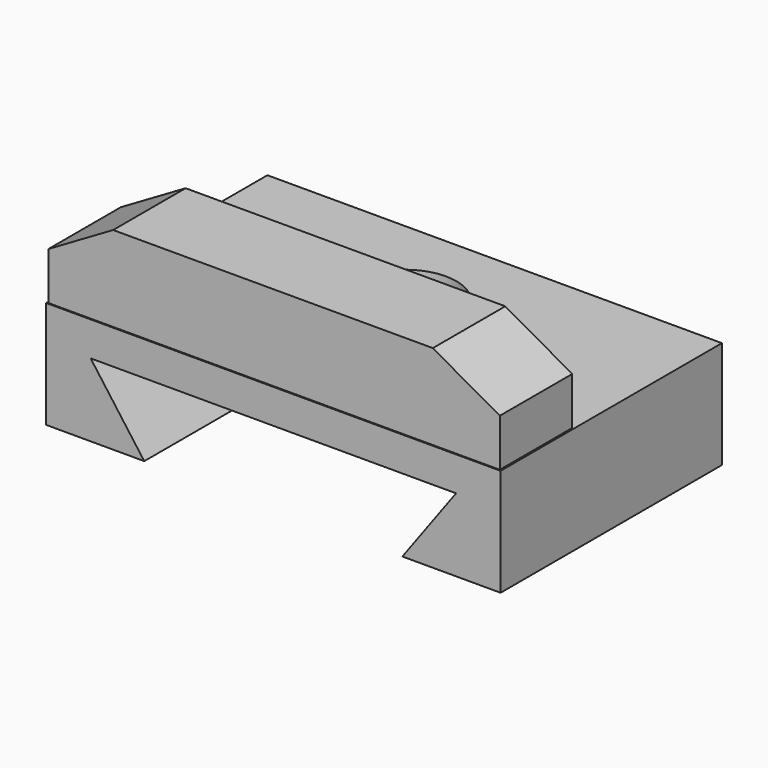
from build123d import *

# Parameters (mm, degrees)
F1_DEPTH = 70.612
F3_DEPTH = 23.114
F4_R     = 13.15197
F5_DEPTH = 25.4


with BuildPart() as f1:
    # F0 (on Front) → F1 (new body)
    with BuildSketch(Plane.XZ):
        Polygon((60.921275, 15.885411), (-55.088852, 15.885411), (-55.088852, -11.513279), (-30.021966, -11.513279), (-43.721311, 7.141148), (49.550828, 7.141148), (35.851475, -11.513279), (60.921275, -11.513279), align=None)
    extrude(amount=-F1_DEPTH)

    # F4 (on Top) → F5 (cut)
    with BuildSketch(Plane.XY):
        with Locations((0, 45.6159)):
            Circle(F4_R)
    extrude(amount=F5_DEPTH, mode=Mode.SUBTRACT)


with BuildPart() as f3:
    # F2 (on Front) → F3 (new body)
    with BuildSketch(Plane.XZ):
        Polygon((-54.507092, 16.066594), (60.713094, 16.066594), (60.713094, 28.195035), (43.623019, 37.842657), (-37.968308, 37.842657), (-54.507092, 28.195035), align=None)
    extrude(amount=-F3_DEPTH)


solid = Compound([f1.part, f3.part])
